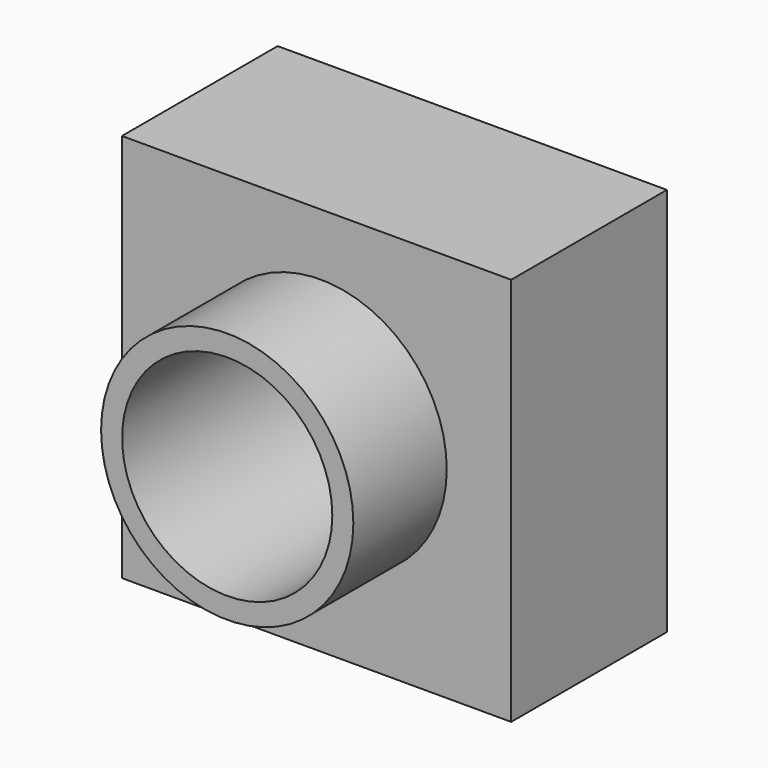
from build123d import *

# Parameters (mm, degrees)
F0_W     = 50
F0_H     = 50
F1_DEPTH = 25
F2_R     = 16.200601
F3_DEPTH = 40
F4_R     = 13.5
F5_DEPTH = 40


with BuildPart() as f1:
    # F0 (on Front) → F1 (new body)
    with BuildSketch(Plane.XZ):
        with Locations((-0.520919, -0.873815)):
            Rectangle(F0_W, F0_H)
    extrude(amount=F1_DEPTH)

    # F2 (on Front) → F3 (join)
    with BuildSketch(Plane.XZ):
        Circle(F2_R)
    extrude(amount=F3_DEPTH)

    # F4 (on Front) → F5 (cut)
    with BuildSketch(Plane.XZ):
        Circle(F4_R)
    extrude(amount=F5_DEPTH, mode=Mode.SUBTRACT)


solid = f1.part
